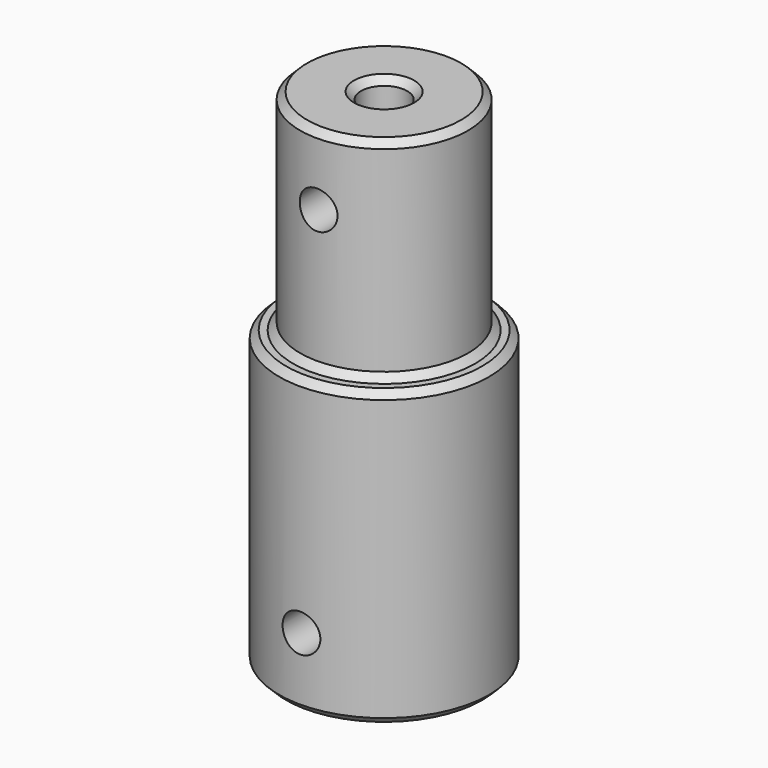
from build123d import *

# Parameters (mm, degrees)
F0_R     = 7.5
F0_R_2   = 2.5
F1_DEPTH = 21
F2_R     = 6
F2_R_2   = 1.651
F3_DEPTH = 15
F5_D     = 2.7
F5_DEPTH = 7.501
F6_D     = 2.7
F7_SIZE  = 0.5


with BuildPart() as f1:
    # F0 (on Top) → F1 (new body)
    with BuildSketch(Plane.XY):
        Circle(F0_R)
        Circle(F0_R_2, mode=Mode.SUBTRACT)
    extrude(amount=F1_DEPTH)

    # F2 (on face) → F3 (join)
    with BuildSketch(Plane.XY.offset(21)):
        Circle(F2_R)
        Circle(F2_R_2, mode=Mode.SUBTRACT)
    extrude(amount=F3_DEPTH)

    # F5 (through all, one way)
    with BuildSketch(Plane.XZ):
        with Locations((0, 5), (0, 31)):
            Circle(F5_D / 2)
    extrude(amount=-F5_DEPTH, mode=Mode.SUBTRACT)

    # F6 (through all)
    with Locations(Plane(origin=(0, 0, 0), x_dir=(1, 0, 0), z_dir=(0, 1, 0))):
        with Locations((0, -5), (0, -31)):
            Hole(F6_D / 2)

    # F7
    f7_edges = [f1.edges().sort_by_distance(p)[0] for p in [
        (-7.5, 0, 0),
        (-7.5, 0, 21),
        (-6, 0, 36),
        (-2.5, 0, 0),
        (-6, 0, 21),
        (-2.5, 0, 21),
        (-1.651, 0, 36),
    ]]
    chamfer(f7_edges, length=F7_SIZE)


solid = f1.part
